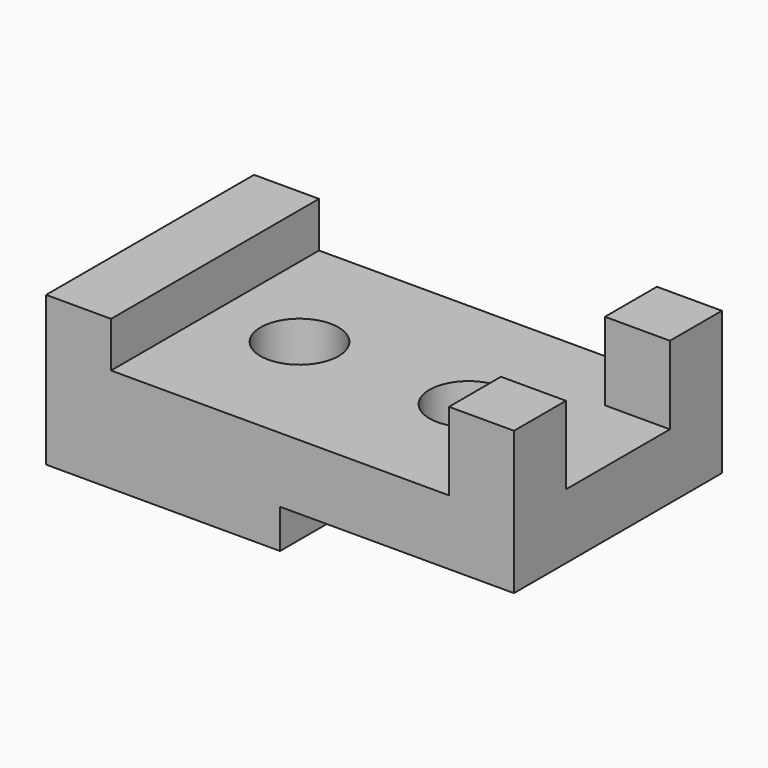
from build123d import *

# Parameters (mm, degrees)
F1_DEPTH = 63.5
F2_W     = 31.75
F2_H     = 19.05
F3_DEPTH = 25.4
F4_R     = 9.525
F5_DEPTH = 25.401


with BuildPart() as f1:
    # F0 (on Front) → F1 (new body)
    with BuildSketch(Plane.XZ):
        Polygon((71.385846, -41.896568), (55.510846, -41.896568), (55.510846, -60.946568), (55.510846, -78.409068), (112.660846, -78.409068), (112.660846, -68.884068), (169.810846, -68.884068), (169.810846, -53.009068), (169.810846, -33.959068), (153.935846, -33.959068), (153.935846, -53.009068), (71.385846, -53.009068), align=None)
    extrude(amount=-F1_DEPTH)

    # F2 (on face) → F3 (cut)
    with BuildSketch(Plane.YZ.offset(169.810846)):
        with Locations((31.75, -43.484068)):
            Rectangle(F2_W, F2_H)
    extrude(amount=-F3_DEPTH, mode=Mode.SUBTRACT)

    # F4 (on face) → F5 (cut, through all)
    with BuildSketch(Plane.XY.offset(-53.009068)):
        with Locations((92.023346, 31.75)):
            Circle(F4_R)
        with Locations((133.298346, 31.75)):
            Circle(F4_R)
    extrude(amount=-F5_DEPTH, mode=Mode.SUBTRACT)


solid = f1.part
